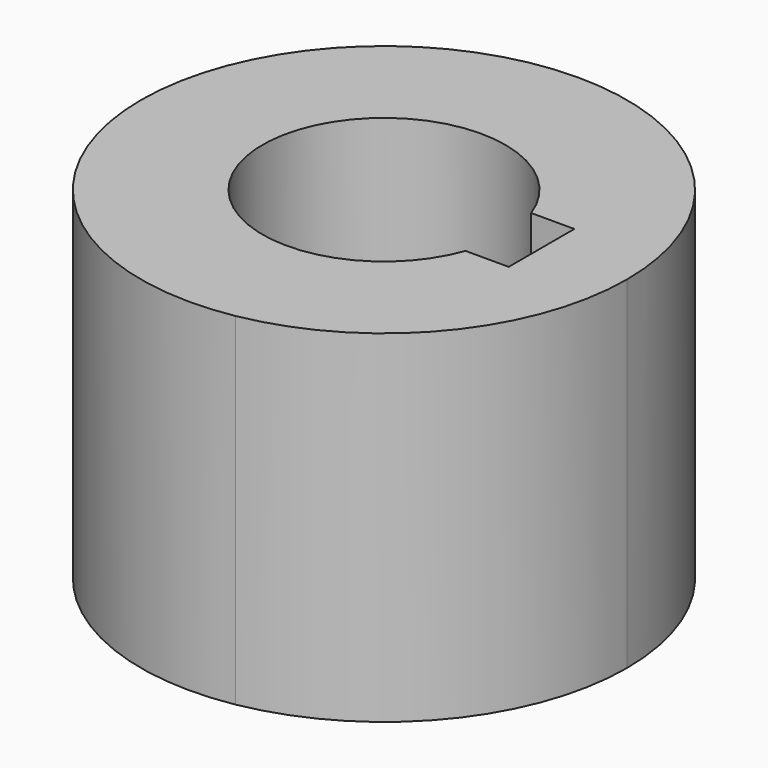
from build123d import *

# Parameters (mm, degrees)
F1_DEPTH = 40.2336


with BuildPart() as f1:
    # F0 (on Top) → F1 (new body)
    with BuildSketch(Plane.XY):
        with BuildLine():
            ThreePointArc((5.042647, 28.126541), (-28.575, 0), (5.042647, -28.126541))
            ThreePointArc((5.042647, -28.126541), (21.916025, -18.336262), (28.575, 0))
            ThreePointArc((28.575, 0), (21.916025, 18.336262), (5.042647, 28.126541))
        make_face()
        with BuildLine():
            ThreePointArc((13.447765, -4.826), (-14.2875, 0), (13.447765, 4.826))
            Line((13.447765, 4.826), (18.5293, 4.826))
            Line((18.5293, 4.826), (18.5293, -4.826))
            Line((18.5293, -4.826), (13.447765, -4.826))
        make_face(mode=Mode.SUBTRACT)
    extrude(amount=F1_DEPTH)


solid = f1.part
